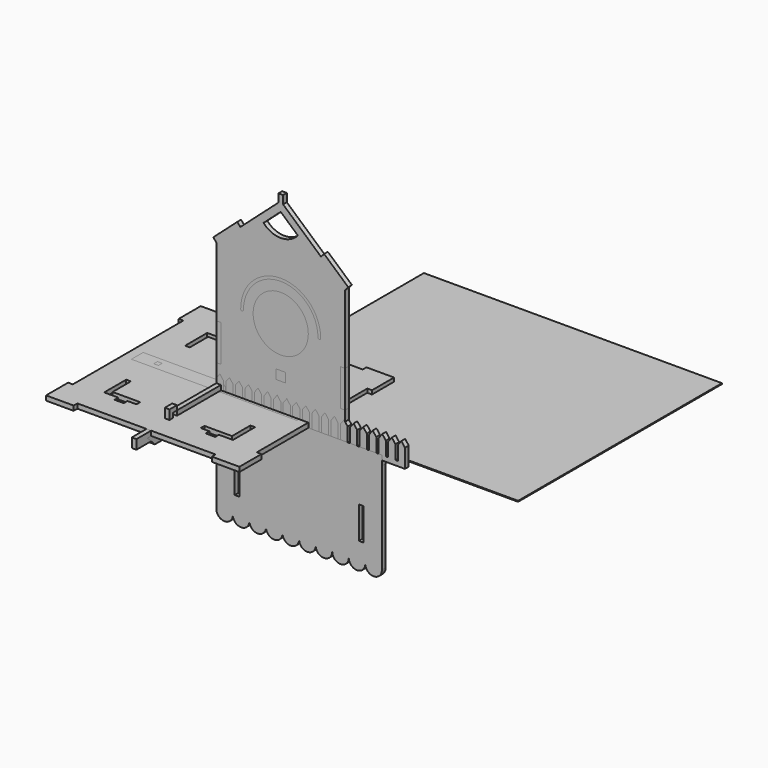
from build123d import *

# Parameters (mm, degrees)
F0_W      = 10.16
F0_H      = 10.16
F0_R      = 30
F1_DEPTH  = 5.08
F3_DEPTH  = 5.08
F4_W      = 10.16
F4_H      = 10.16
F4_R      = 30
F5_DEPTH  = 5.08
F7_DEPTH  = 5.08
F9_DEPTH  = 5.08
F11_DEPTH = 5.08
F13_DEPTH = 5.08
F15_DEPTH = 5.08
F16_W     = 5.08
F16_H     = 35
F17_DEPTH = 5.08
F18_W     = 180
F18_H     = 16
F18_W_2   = 5.08
F18_H_2   = 5.08
F19_DEPTH = 5.08
F20_W     = 324
F20_H     = 277
F21_DEPTH = 1


with BuildPart() as f1:
    # F0 (on Front) → F1 (new body)
    with BuildSketch(Plane.XZ):
        Polygon((0, 70), (0, 30), (5.08, 30), (5.08, -5.08), (20.32, -5.08), (20.32, 5.08), (15.24, 5.08), (15.24, 10.16), (25.4, 10.16), (25.4, -5.08), (35.08, -5.08), (35.08, 0), (104.92, 0), (104.92, -5.08), (114.6, -5.08), (114.6, 10.16), (124.76, 10.16), (124.76, 5.08), (119.68, 5.08), (119.68, -5.08), (134.92, -5.08), (134.92, 30), (140, 30), (140, 70), (134.92, 70), (134.92, 140), (5.08, 140), (5.08, 70), align=None)
        with Locations((70, 40)):
            Rectangle(F0_W, F0_H, mode=Mode.SUBTRACT)
        with Locations((70, 90)):
            Circle(F0_R, mode=Mode.SUBTRACT)
    extrude(amount=F1_DEPTH)


with BuildPart() as f3:
    # F2 (on Front) → F3 (new body)
    with BuildSketch(Plane.XZ):
        Polygon((0, 30), (0, 0), (0, -5.08), (30, -5.08), (30, 0), (110, 0), (110, -5.08), (140, -5.08), (140, 0), (140, 30), (134.92, 30), (134.92, 70), (140, 70), (140, 145), (143.3760857559, 148.7958457515), (117.2236051845, 172.0562791087), (113.8475194287, 168.2604333572), (72.54, 205), (72.54, 213.89), (70, 213.89), (67.46, 213.89), (67.46, 205), (26.1524805713, 168.2604333572), (22.7763948155, 172.0562791087), (-3.3760857559, 148.7958457515), (0, 145), (0, 70), (5.08, 70), (5.08, 30), align=None)
        with BuildLine():
            Line((51.3196567348, 180.3854047448), (70, 197))
            Line((70, 197), (88.6803432652, 180.3854047448))
            ThreePointArc((88.6803432652, 180.3854047448), (70, 172), (51.3196567348, 180.3854047448))
        make_face(mode=Mode.SUBTRACT)
    extrude(amount=F3_DEPTH)


with BuildPart() as f5:
    # F4 (on Front) → F5 (new body)
    with BuildSketch(Plane.XZ):
        Polygon((0, 30), (0, 0), (0, -5.08), (30, -5.08), (30, 0), (110, 0), (110, -5.08), (140, -5.08), (140, 0), (140, 30), (134.92, 30), (134.92, 70), (140, 70), (140, 145), (143.3760857559, 148.7958457515), (117.2236051845, 172.0562791087), (113.8475194287, 168.2604333572), (72.54, 205), (72.54, 213.89), (70, 213.89), (67.46, 213.89), (67.46, 205), (26.1524805713, 168.2604333572), (22.7763948155, 172.0562791087), (-3.3760857559, 148.7958457515), (0, 145), (0, 70), (5.08, 70), (5.08, 30), align=None)
        with Locations((70, 40)):
            Rectangle(F4_W, F4_H, mode=Mode.SUBTRACT)
        with Locations((70, 90)):
            Circle(F4_R, mode=Mode.SUBTRACT)
        with BuildLine():
            ThreePointArc((110.5, 90), (70, 130.5), (29.5, 90))
            ThreePointArc((29.5, 90), (28, 88.5), (26.5, 90))
            ThreePointArc((26.5, 90), (70, 133.5), (113.5, 90))
            ThreePointArc((113.5, 90), (112, 88.5), (110.5, 90))
        make_face(mode=Mode.SUBTRACT)
        with BuildLine():
            Line((51.3196567348, 180.3854047448), (70, 197))
            Line((70, 197), (88.6803432652, 180.3854047448))
            ThreePointArc((88.6803432652, 180.3854047448), (70, 172), (51.3196567348, 180.3854047448))
        make_face(mode=Mode.SUBTRACT)
    extrude(amount=F5_DEPTH)


with BuildPart() as f7:
    # F6 (on Right) → F7 (new body)
    with BuildSketch(Plane.YZ):
        Polygon((64.92, 5.08), (64.92, 10.26), (-64.92, 10.26), (-64.92, 5.08), (-120, 5.08), (-120, -5.08), (-64.92, -5.08), (-64.92, -10.26), (64.92, -10.26), (64.92, -5.08), (120, -5.08), (120, 5.08), align=None)
    extrude(amount=F7_DEPTH)


with BuildPart() as f9:
    # F8 (on Front) → F9 (new body)
    with BuildSketch(Plane.XZ):
        Polygon((0, 5.08), (-55.08, 5.08), (-55.08, -5.08), (0, -5.08), (0, -19.08), (10.16, -9.54), (10.16, 9.54), (0, 19.08), align=None)
    extrude(amount=F9_DEPTH)


with BuildPart() as f11:
    # F10 (on Top) → F11 (new body)
    with BuildSketch(Plane.XY):
        Polygon((-105.08, 75.08), (-100, 75.08), (-100, -75.08), (-105.08, -75.08), (-105.08, -105.08), (-75.08, -105.08), (-75.08, -100), (75.08, -100), (75.08, -105.08), (105.08, -105.08), (105.08, -75.08), (100, -75.08), (100, 75.08), (105.08, 75.08), (105.08, 105.08), (75.08, 105.08), (75.08, 100), (-75.08, 100), (-75.08, 105.08), (-105.08, 105.08), align=None)
        Polygon((-34.92, -70), (-44.6, -70), (-44.6, -75.08), (-54.76, -75.08), (-54.76, -70), (-70, -70), (-70, -40), (-64.92, -40), (-64.92, -64.92), (-34.92, -64.92), align=None, mode=Mode.SUBTRACT)
        Polygon((70, -40), (70, -70), (54.76, -70), (54.76, -75.08), (44.6, -75.08), (44.6, -70), (34.92, -70), (34.92, -64.92), (64.92, -64.92), (64.92, -40), align=None, mode=Mode.SUBTRACT)
        Polygon((-70, 40), (-70, 70), (-54.76, 70), (-54.76, 75.08), (-44.6, 75.08), (-44.6, 70), (-34.92, 70), (-34.92, 64.92), (-64.92, 64.92), (-64.92, 40), align=None, mode=Mode.SUBTRACT)
        Polygon((44.6, 75.08), (54.76, 75.08), (54.76, 70), (70, 70), (70, 40), (64.92, 40), (64.92, 64.92), (34.92, 64.92), (34.92, 70), (44.6, 70), align=None, mode=Mode.SUBTRACT)
    extrude(amount=F11_DEPTH)


with BuildPart() as f13:
    # F12 (on Right) → F13 (new body)
    with BuildSketch(Plane.YZ):
        Polygon((70, 0), (0, 0), (-70, 0), (-70, 10.16), (-64.92, 10.16), (-64.92, 15.24), (-75.08, 15.24), (-75.08, 0), (-105.08, 0), (-94.92, -10.16), (0, -10.16), (94.92, -10.16), (105.08, 0), (75.08, 0), (75.08, 15.24), (64.92, 15.24), (64.92, 10.16), (70, 10.16), align=None)
    extrude(amount=F13_DEPTH)


with BuildPart() as f15:
    # F14 (on Front) → F15 (new body)
    with BuildSketch(Plane.XZ):
        Polygon((0, 15.24), (0, 0), (0, -5.08), (30, -5.08), (30, -10.16), (180.1638481013, -10.16), (180.1638481013, -5.08), (205.0838481013, -5.08), (205.0838481013, 0), (205.0838481013, 15.24), (201.1899240506, 20.32), (197.296, 15.24), (197.296, 0), (194.6998481013, 0), (194.6998481013, 15.24), (190.8059240506, 20.32), (186.912, 15.24), (186.912, 0), (184.3158481013, 0), (184.3158481013, 15.24), (180.4219240506, 20.32), (176.528, 15.24), (176.528, 0), (173.9318481013, 0), (173.9318481013, 15.24), (170.0379240506, 20.32), (166.144, 15.24), (166.144, 0), (163.5478481013, 0), (163.5478481013, 15.24), (159.6539240506, 20.32), (155.76, 15.24), (155.76, 0), (153.1638481013, 0), (153.1638481013, 15.24), (149.2699240506, 20.32), (145.376, 15.24), (145.376, 0), (142.7798481013, 0), (142.7798481013, 15.24), (138.8859240506, 20.32), (134.992, 15.24), (134.992, 0), (132.3958481013, 0), (132.3958481013, 15.24), (128.5019240506, 20.32), (124.608, 15.24), (124.608, 0), (122.0118481013, 0), (122.0118481013, 15.24), (118.1179240506, 20.32), (114.224, 15.24), (114.224, 0), (111.6278481013, 0), (111.6278481013, 15.24), (107.7339240506, 20.32), (103.84, 15.24), (103.84, 0), (101.2438481013, 0), (101.2438481013, 15.24), (97.3499240506, 20.32), (93.456, 15.24), (93.456, 0), (90.8598481013, 0), (90.8598481013, 15.24), (86.9659240506, 20.32), (83.072, 15.24), (83.072, 0), (80.4758481013, 0), (80.4758481013, 15.24), (76.5819240506, 20.32), (72.688, 15.24), (72.688, 0), (70.0918481013, 0), (70.0918481013, 15.24), (66.1979240506, 20.32), (62.304, 15.24), (62.304, 0), (59.7078481013, 0), (59.7078481013, 15.24), (55.8139240506, 20.32), (51.92, 15.24), (51.92, 0), (49.3238481013, 0), (49.3238481013, 15.24), (45.4299240506, 20.32), (41.536, 15.24), (41.536, 0), (38.9398481013, 0), (38.9398481013, 15.24), (35.0459240506, 20.32), (31.152, 15.24), (31.152, 0), (28.5558481013, 0), (28.5558481013, 15.24), (24.6619240506, 20.32), (20.768, 15.24), (20.768, 0), (18.1718481013, 0), (18.1718481013, 15.24), (14.2779240506, 20.32), (10.384, 15.24), (10.384, 0), (7.7878481013, 0), (7.7878481013, 15.24), (3.8939240506, 20.32), align=None)
    extrude(amount=F15_DEPTH)


with BuildPart() as f17:
    # F16 (on Front) → F17 (new body)
    with BuildSketch(Plane.XZ):
        with BuildLine():
            Line((0, 0), (0, -110))
            ThreePointArc((0, -110), (9, -119), (18, -110))
            ThreePointArc((18, -110), (27, -119), (36, -110))
            ThreePointArc((36, -110), (45, -119), (54, -110))
            ThreePointArc((54, -110), (63, -119), (72, -110))
            ThreePointArc((72, -110), (81, -119), (90, -110))
            ThreePointArc((90, -110), (99, -119), (108, -110))
            ThreePointArc((108, -110), (117, -119), (126, -110))
            ThreePointArc((126, -110), (135, -119), (144, -110))
            ThreePointArc((144, -110), (153, -119), (162, -110))
            ThreePointArc((162, -110), (171, -119), (180, -110))
            Line((180, -110), (180, 0))
            Line((180, 0), (0, 0))
        make_face()
        with Locations((22.54, -72.782)):
            Rectangle(F16_W, F16_H, mode=Mode.SUBTRACT)
        with Locations((157.46, -72.782)):
            Rectangle(F16_W, F16_H, mode=Mode.SUBTRACT)
    extrude(amount=F17_DEPTH)


with BuildPart() as f19:
    # F18 (on Top) → F19 (new body)
    with BuildSketch(Plane.XY):
        Rectangle(F18_W, F18_H)
        with Locations((-67.46, 0)):
            Rectangle(F18_W_2, F18_H_2, mode=Mode.SUBTRACT)
        with Locations((67.46, 0)):
            Rectangle(F18_W_2, F18_H_2, mode=Mode.SUBTRACT)
    extrude(amount=F19_DEPTH)


with BuildPart() as f21:
    # F20 (on Top) → F21 (new body)
    with BuildSketch(Plane.XY):
        with Locations((162, 138.5)):
            Rectangle(F20_W, F20_H)
    extrude(amount=F21_DEPTH)


solid = Compound([f1.part, f3.part, f5.part, f7.part, f9.part, f11.part, f13.part, f15.part, f17.part, f19.part, f21.part])
